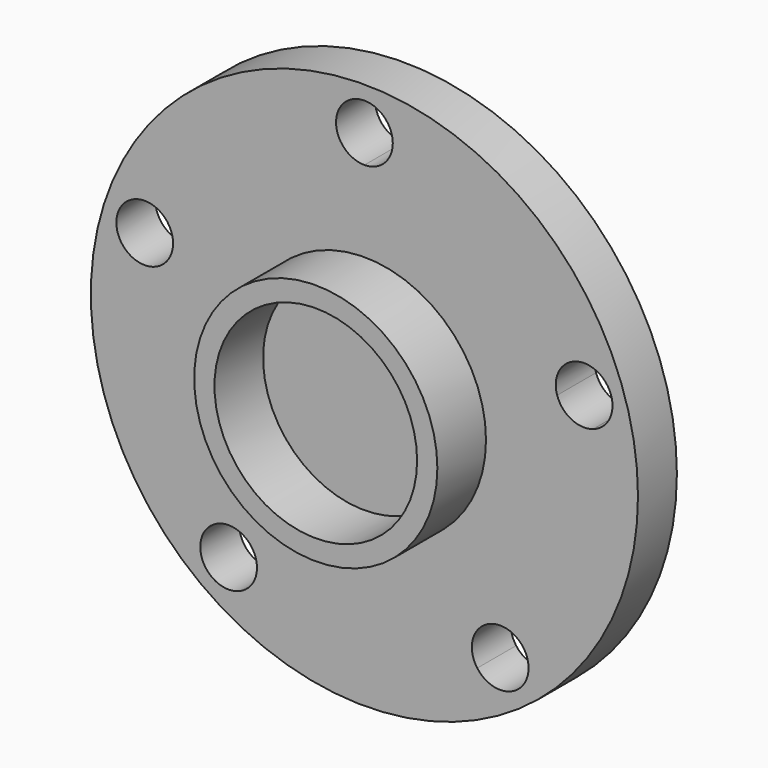
from build123d import *

# Parameters (mm, degrees)
F0_R     = 67.5
F1_DEPTH = 12
F2_R     = 30
F2_R_2   = 25
F3_DEPTH = 15
F5_DEPTH = 15
F6_COUNT = 5


with BuildPart() as f1:
    # F0 (on Front) → F1 (new body)
    with BuildSketch(Plane.XZ):
        Circle(F0_R)
    extrude(amount=F1_DEPTH)

    # F2 (on face) → F3 (join)
    with BuildSketch(Plane.XZ.offset(12)):
        Circle(F2_R)
        Circle(F2_R_2, mode=Mode.SUBTRACT)
    extrude(amount=F3_DEPTH)

    # F4 (on face) → F5 (cut)
    with BuildSketch(Plane.XZ.offset(12)):
        with BuildLine():
            ThreePointArc((0, 50), (4.9497474683, 52.0502525317), (7, 57))
            ThreePointArc((7, 57), (-4.9497474683, 61.9497474683), (0, 50))
        make_face()
    f5 = extrude(amount=-F5_DEPTH, mode=Mode.SUBTRACT)

    # F6: F5 ×5 about axis
    f6_axis = Axis((0, -12, 0), (0, -1, 0))
    for i in range(1, F6_COUNT):
        add(f5.rotate(f6_axis, i * 360 / F6_COUNT), mode=Mode.SUBTRACT)


solid = f1.part
